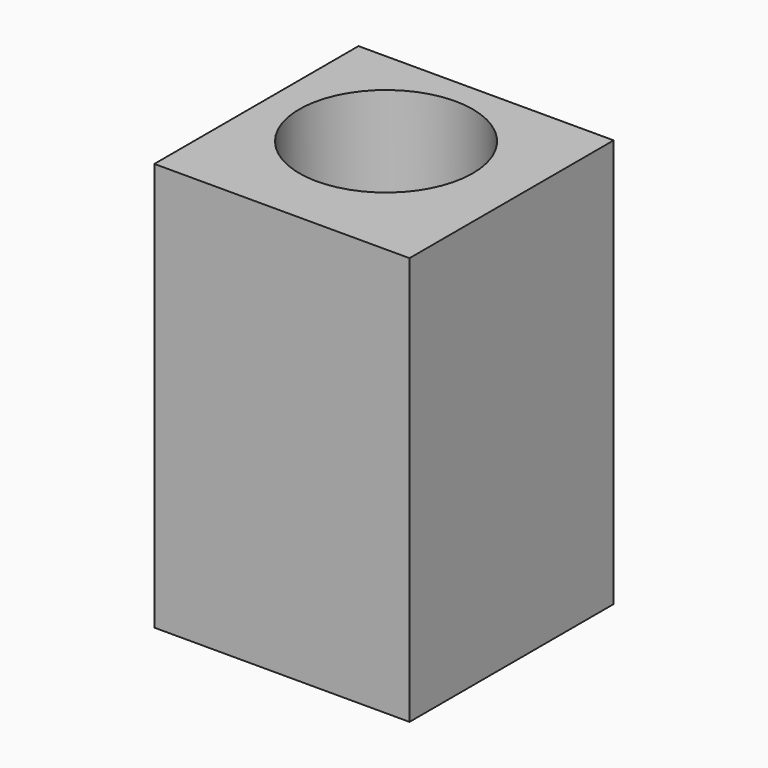
from build123d import *

# Parameters (mm, degrees)
SKETCH_W     = 5
SKETCH_H     = 5
PAD_DEPTH    = 8
SKETCH002_R  = 1.7
POCKET_DEPTH = 9


with BuildPart() as part:
    # Sketch → Pad (new body)
    with BuildSketch(Plane.XY):
        Rectangle(SKETCH_W, SKETCH_H)
    extrude(amount=PAD_DEPTH)

    # Sketch002 (on Face6 of Pad) → Pocket (cut)
    with BuildSketch(Plane.XY.offset(8)):
        with Locations((-0.2, 0.3)):
            Circle(SKETCH002_R)
    extrude(amount=-POCKET_DEPTH, mode=Mode.SUBTRACT)


solid = part.part
